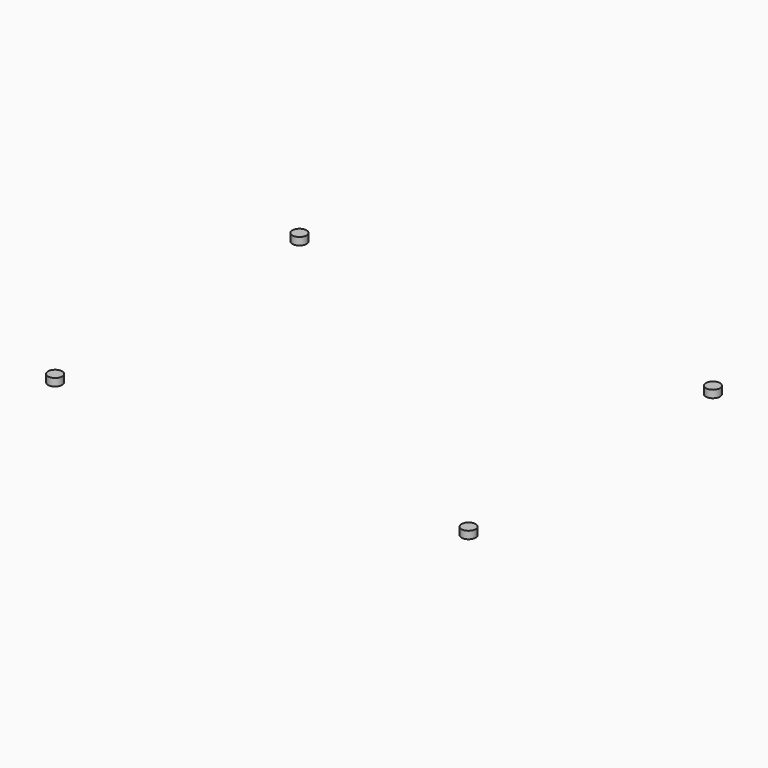
from build123d import *

# Parameters (mm, degrees)
CYLINDER009_R     = 1.5
CYLINDER009_DEPTH = 1.6
CYLINDER010_R     = 1.5
CYLINDER010_DEPTH = 1.6
CYLINDER008_R     = 1.5
CYLINDER008_DEPTH = 1.6
CYLINDER011_R     = 1.5
CYLINDER011_DEPTH = 1.6


with BuildPart() as zylinder009:
    # Cylinder009 → Cylinder009 (new body)
    with BuildSketch(Plane(origin=(90.5, 2.5, 0), x_dir=(1, 0, 0), z_dir=(0, 0, 1))):
        Circle(CYLINDER009_R)
    extrude(amount=CYLINDER009_DEPTH)


with BuildPart() as zylinder010:
    # Cylinder010 → Cylinder010 (new body)
    with BuildSketch(Plane(origin=(90.5, 67.5, 0), x_dir=(1, 0, 0), z_dir=(0, 0, 1))):
        Circle(CYLINDER010_R)
    extrude(amount=CYLINDER010_DEPTH)


with BuildPart() as zylinder008:
    # Cylinder008 → Cylinder008 (new body)
    with BuildSketch(Plane(origin=(2.5, 2.5, 0), x_dir=(1, 0, 0), z_dir=(0, 0, 1))):
        Circle(CYLINDER008_R)
    extrude(amount=CYLINDER008_DEPTH)


with BuildPart() as fusion002:
    # Cylinder011 → Cylinder011 (new body)
    with BuildSketch(Plane(origin=(2.5, 67.5, 0), x_dir=(1, 0, 0), z_dir=(0, 0, 1))):
        Circle(CYLINDER011_R)
    extrude(amount=CYLINDER011_DEPTH)

    # Fusion002: union Zylinder009, Zylinder010, Zylinder008
    add(zylinder009.part)
    add(zylinder010.part)
    add(zylinder008.part)


with BuildPart() as fusion002_1:
    # Fusion002 placement: moved
    add(fusion002.part.moved(Location((0, 0, -1.6))))


solid = fusion002_1.part
